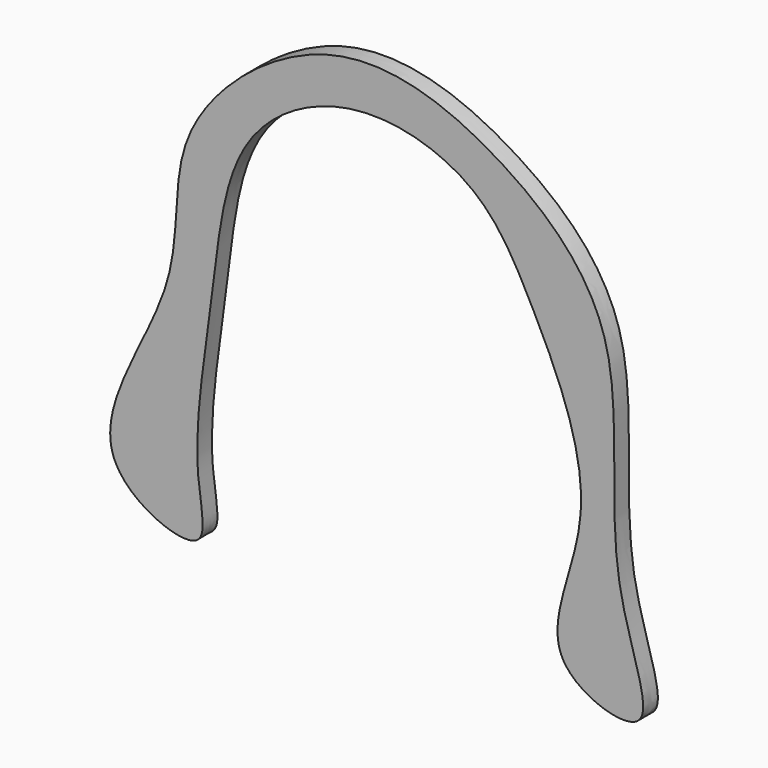
from build123d import *

# Parameters (mm, degrees)
F1_DEPTH = 3.556


with BuildPart() as f1:
    # F0 (on Front) → F1 (new body)
    with BuildSketch(Plane.XZ):
        with BuildLine():
            add(Edge.make_bspline(
                [(-41.7057685554, -14.3456012011), (-41.2195770601, -19.7868340734), (-37.8082023919, -30.2678342886), (-68.9309474297, -17.4286029873), (-42.292885132, 16.6042097621), (-49.7230817476, 44.0935030444), (-15.7532550836, 72.9782484608), (18.3943806378, 59.6837166144), (42.9576459794, 36.0694858997), (35.1928108359, -4.402981985), (50.568724221, -33.8595932203), (20.6798457214, -24.0421338701), (38.1832908386, 3.7499206248), (23.3002838609, 35.1532705066), (13.188709467, 53.7509721537), (-11.7272979554, 61.2958835948), (-36.2199082486, 47.5398304256), (-38.4826103209, 17.2118640765), (-42.5224873822, -5.2052575893), (-41.7057685554, -14.3456012011)],
                knots=[0, 0, 0, 0, 0.0384653425, 0.087127538, 0.1543130753, 0.2141968051, 0.2831519734, 0.349514924, 0.4129789216, 0.4868533354, 0.5404301163, 0.58523257, 0.6436253411, 0.7100050994, 0.762255448, 0.8171926784, 0.8733557036, 0.9353847821, 1, 1, 1, 1], degree=3))
        make_face()
    extrude(amount=F1_DEPTH)


solid = f1.part
